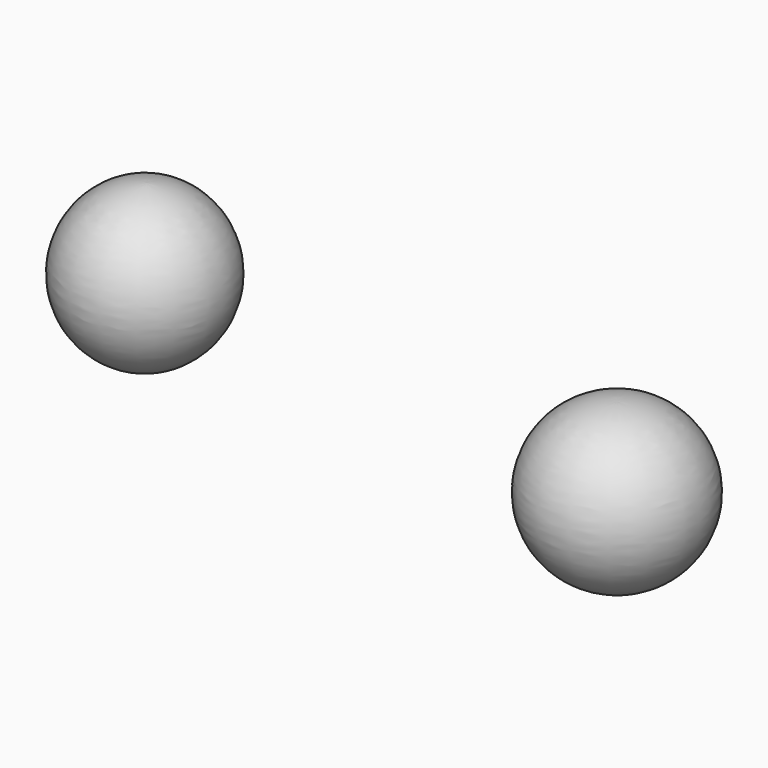
from build123d import *


with BuildPart() as f1:
    # F0 (on Front) → F1 (revolve)
    with BuildSketch(Plane.XZ):
        with BuildLine():
            Line((-24.4807050976, 39.8767976239), (-24.9092772977, 21.8767976239))
            ThreePointArc((-24.9092772977, 21.8767976239), (-15.996265961, 30.6696847454), (-24.4807050976, 39.8767976239))
        make_face()
    revolve(axis=Axis((-24.6949911977, 0, 30.8767976239), (-0.0238028208, 0, -0.9997166727)))


with BuildPart() as f3:
    # F2 (on Front) → F3 (revolve)
    with BuildSketch(Plane.XZ):
        with BuildLine():
            Line((28.5549273023, 35.4860615134), (28.5549273023, 17.4860615134))
            ThreePointArc((28.5549273023, 17.4860615134), (37.8113766816, 26.4860615134), (28.5549273023, 35.4860615134))
        make_face()
    revolve(axis=Axis((28.5549273023, 0, 26.4860615134), (0, 0, -1)))


solid = Compound([f1.part, f3.part])
